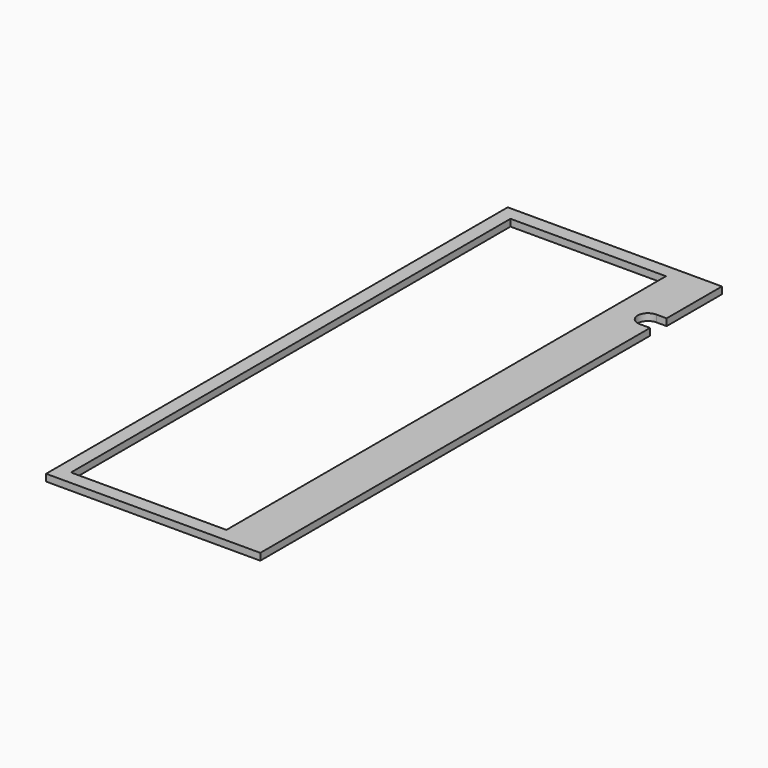
from build123d import *

# Parameters (mm, degrees)
BOX002_W       = 6
BOX002_H       = 6
BOX002_DEPTH   = 10
BOX_W          = 45
BOX_H          = 159
BOX_DEPTH      = 3
CYLINDER_R     = 3
CYLINDER_DEPTH = 10
BOX001_W       = 62
BOX001_H       = 167
BOX001_DEPTH   = 2


with BuildPart() as cube002:
    # Box002 → Box002 (new body)
    with BuildSketch(Plane(origin=(55, 137, 0), x_dir=(1, 0, 0), z_dir=(0, 0, 1))):
        with Locations((3, 3)):
            Rectangle(BOX002_W, BOX002_H)
    extrude(amount=BOX002_DEPTH)


with BuildPart() as cube:
    # Box → Box (new body)
    with BuildSketch(Plane.XY):
        with Locations((22.5, 79.5)):
            Rectangle(BOX_W, BOX_H)
    extrude(amount=BOX_DEPTH)


with BuildPart() as fusion:
    # Cylinder → Cylinder (new body)
    with BuildSketch(Plane(origin=(55, 140, 0), x_dir=(1, 0, 0), z_dir=(0, 0, 1))):
        Circle(CYLINDER_R)
    extrude(amount=CYLINDER_DEPTH)

    # Fusion: union Cube
    add(cube.part)


with BuildPart() as cut001:
    # Box001 → Box001 (new body)
    with BuildSketch(Plane(origin=(-4, -4, 0), x_dir=(1, 0, 0), z_dir=(0, 0, 1))):
        with Locations((31, 83.5)):
            Rectangle(BOX001_W, BOX001_H)
    extrude(amount=BOX001_DEPTH)

    # Cut: cut Fusion
    add(fusion.part, mode=Mode.SUBTRACT)

    # Cut001: cut Cube002
    add(cube002.part, mode=Mode.SUBTRACT)


solid = cut001.part
